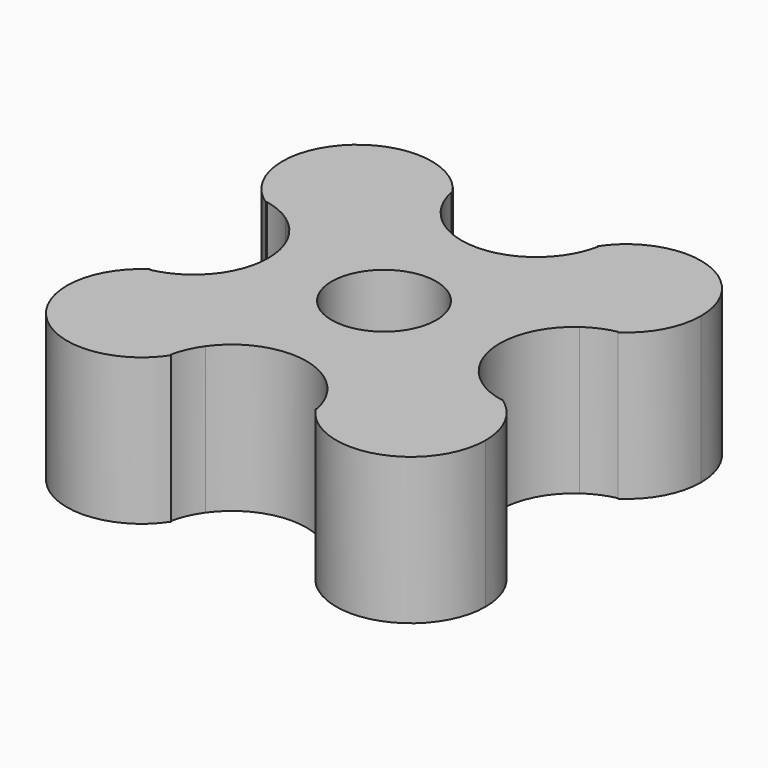
from build123d import *

# Parameters (mm, degrees)
F1_DEPTH = 4.9
F2_D     = 3.5


with BuildPart() as f1:
    # F0 (on Top) → F1 (new body)
    with BuildSketch(Plane.XY):
        with BuildLine():
            ThreePointArc((-2.4513349141, 5.8753238716), (-2.436238396, 5.8815997768), (-2.4211258105, 5.887836892))
            ThreePointArc((-2.4211258105, 5.887836892), (-6.2693485338, 6.2693485338), (-5.887836892, 2.4211258105))
            ThreePointArc((-5.887836892, 2.4211258105), (-5.8815997768, 2.436238396), (-5.8753238716, 2.4513349141))
            ThreePointArc((-5.8753238716, 2.4513349141), (-5.2887540631, 3.5436639114), (-4.5015815808, 4.5015815808))
            ThreePointArc((-4.5015815808, 4.5015815808), (-3.5436639114, 5.2887540631), (-2.4513349141, 5.8753238716))
        make_face()
        with BuildLine():
            ThreePointArc((2.4513349141, 5.8753238716), (4.5015815808, 4.5015815808), (5.8753238716, 2.4513349141))
            ThreePointArc((5.8753238716, 2.4513349141), (5.8815997768, 2.436238396), (5.887836892, 2.4211258105))
            ThreePointArc((5.887836892, 2.4211258105), (6.7056276645, 3.32167444), (7.0015815808, 4.5015815808))
            ThreePointArc((7.0015815808, 4.5015815808), (5.2257571722, 6.8943978531), (2.4211258105, 5.887836892))
            ThreePointArc((2.4211258105, 5.887836892), (2.436238396, 5.8815997768), (2.4513349141, 5.8753238716))
        make_face()
        with BuildLine():
            ThreePointArc((4.9155755495, -2.0360980595), (3.8661977237, 0), (4.9155755495, 2.0360980595))
            ThreePointArc((4.9155755495, 2.0360980595), (2.7338146278, 2.7338146278), (2.0360980595, 4.9155755495))
            ThreePointArc((2.0360980595, 4.9155755495), (0, 3.8661977237), (-2.0360980595, 4.9155755495))
            ThreePointArc((-2.0360980595, 4.9155755495), (-2.0102256444, 4.7092967665), (-2.0015815808, 4.5015815808))
            ThreePointArc((-2.0015815808, 4.5015815808), (-2.1918827495, 3.5448729999), (-2.7338146278, 2.7338146278))
            ThreePointArc((-2.7338146278, 2.7338146278), (-3.7400847484, 2.1203796628), (-4.9155755495, 2.0360980595))
            ThreePointArc((-4.9155755495, 2.0360980595), (-3.8661977237, 0), (-4.9155755495, -2.0360980595))
            ThreePointArc((-4.9155755495, -2.0360980595), (-2.8868037202, -2.5930500875), (-2.0015815808, -4.5015815808))
            ThreePointArc((-2.0015815808, -4.5015815808), (-2.0102256444, -4.7092967665), (-2.0360980595, -4.9155755495))
            ThreePointArc((-2.0360980595, -4.9155755495), (0, -3.8661977237), (2.0360980595, -4.9155755495))
            ThreePointArc((2.0360980595, -4.9155755495), (2.7338146278, -2.7338146278), (4.9155755495, -2.0360980595))
        make_face()
        with BuildLine():
            ThreePointArc((7.0015815808, -4.5015815808), (6.7056276645, -3.32167444), (5.887836892, -2.4211258105))
            ThreePointArc((5.887836892, -2.4211258105), (5.8815997768, -2.436238396), (5.8753238716, -2.4513349141))
            ThreePointArc((5.8753238716, -2.4513349141), (4.5015815808, -4.5015815808), (2.4513349141, -5.8753238716))
            ThreePointArc((2.4513349141, -5.8753238716), (2.436238396, -5.8815997768), (2.4211258105, -5.887836892))
            ThreePointArc((2.4211258105, -5.887836892), (5.2257571722, -6.8943978531), (7.0015815808, -4.5015815808))
        make_face()
        with BuildLine():
            ThreePointArc((-5.8753238716, -2.4513349141), (-5.8815997768, -2.436238396), (-5.887836892, -2.4211258105))
            ThreePointArc((-5.887836892, -2.4211258105), (-6.2693485338, -6.2693485338), (-2.4211258105, -5.887836892))
            ThreePointArc((-2.4211258105, -5.887836892), (-2.436238396, -5.8815997768), (-2.4513349141, -5.8753238716))
            ThreePointArc((-2.4513349141, -5.8753238716), (-4.5015815808, -4.5015815808), (-5.8753238716, -2.4513349141))
        make_face()
        with BuildLine():
            ThreePointArc((4.9155755495, 2.0360980595), (5.3734957964, 2.2944591702), (5.8753238716, 2.4513349141))
            ThreePointArc((5.8753238716, 2.4513349141), (4.5015815808, 4.5015815808), (2.4513349141, 5.8753238716))
            ThreePointArc((2.4513349141, 5.8753238716), (2.2944591702, 5.3734957964), (2.0360980595, 4.9155755495))
            ThreePointArc((2.0360980595, 4.9155755495), (2.7338146278, 2.7338146278), (4.9155755495, 2.0360980595))
        make_face()
        with BuildLine():
            Line((-2.7338146278, 2.7338146278), (-4.5015815808, 4.5015815808))
            ThreePointArc((-4.5015815808, 4.5015815808), (-5.2887540631, 3.5436639114), (-5.8753238716, 2.4513349141))
            ThreePointArc((-5.8753238716, 2.4513349141), (-5.3734957964, 2.2944591702), (-4.9155755495, 2.0360980595))
            ThreePointArc((-4.9155755495, 2.0360980595), (-3.7400847484, 2.1203796628), (-2.7338146278, 2.7338146278))
        make_face()
        with BuildLine():
            ThreePointArc((-2.4513349141, -5.8753238716), (-2.2944591702, -5.3734957964), (-2.0360980595, -4.9155755495))
            ThreePointArc((-2.0360980595, -4.9155755495), (-2.0102256444, -4.7092967665), (-2.0015815808, -4.5015815808))
            ThreePointArc((-2.0015815808, -4.5015815808), (-2.8868037202, -2.5930500875), (-4.9155755495, -2.0360980595))
            ThreePointArc((-4.9155755495, -2.0360980595), (-5.3734957964, -2.2944591702), (-5.8753238716, -2.4513349141))
            ThreePointArc((-5.8753238716, -2.4513349141), (-4.5015815808, -4.5015815808), (-2.4513349141, -5.8753238716))
        make_face()
        with BuildLine():
            ThreePointArc((-2.0015815808, 4.5015815808), (-2.0102256444, 4.7092967665), (-2.0360980595, 4.9155755495))
            ThreePointArc((-2.0360980595, 4.9155755495), (-2.2944591702, 5.3734957964), (-2.4513349141, 5.8753238716))
            ThreePointArc((-2.4513349141, 5.8753238716), (-3.5436639114, 5.2887540631), (-4.5015815808, 4.5015815808))
            Line((-4.5015815808, 4.5015815808), (-2.7338146278, 2.7338146278))
            ThreePointArc((-2.7338146278, 2.7338146278), (-2.1918827495, 3.5448729999), (-2.0015815808, 4.5015815808))
        make_face()
        with BuildLine():
            ThreePointArc((5.8753238716, -2.4513349141), (5.3734957964, -2.2944591702), (4.9155755495, -2.0360980595))
            ThreePointArc((4.9155755495, -2.0360980595), (2.7338146278, -2.7338146278), (2.0360980595, -4.9155755495))
            ThreePointArc((2.0360980595, -4.9155755495), (2.2944591702, -5.3734957964), (2.4513349141, -5.8753238716))
            ThreePointArc((2.4513349141, -5.8753238716), (4.5015815808, -4.5015815808), (5.8753238716, -2.4513349141))
        make_face()
    extrude(amount=F1_DEPTH)

    # F2 (through all)
    with Locations(Plane(origin=(0, 0, 0), x_dir=(1, 0, 0), z_dir=(0, 0, -1))):
        with Locations((0, 0)):
            Hole(F2_D / 2)


solid = f1.part
